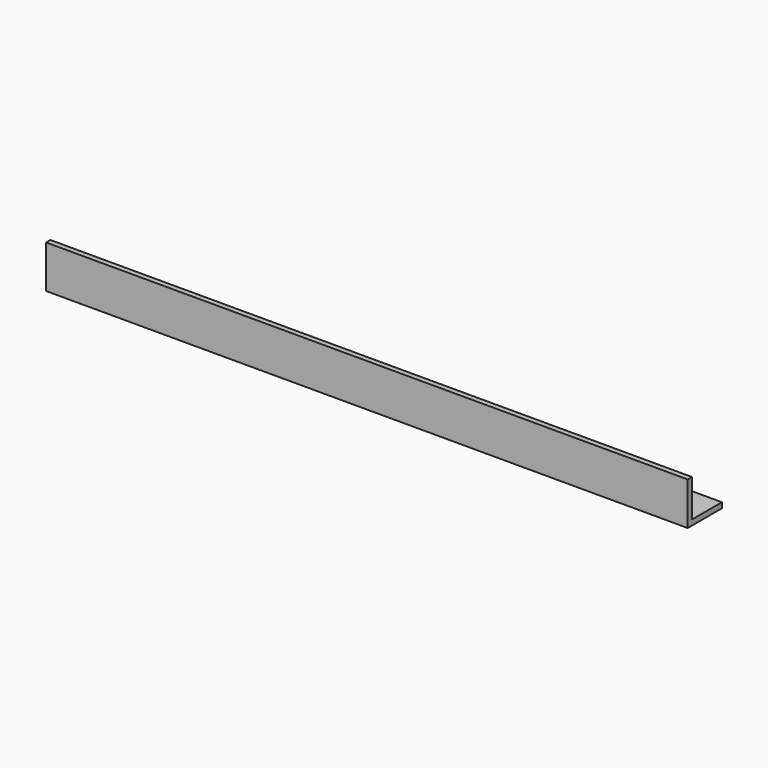
from build123d import *

# Parameters (mm, degrees)
F1_DEPTH = 381
F2_R     = 6.35
F3_DEPTH = 50.801
F5_D     = 8.4328


with BuildPart() as f1:
    # F0 (on Right) → F1 (new body, symmetric)
    with BuildSketch(Plane.YZ):
        Polygon((0, 50.8), (0, 0), (50.8, 0), (50.8, 6.35), (6.35, 6.35), (6.35, 50.8), align=None)
    extrude(amount=F1_DEPTH, both=True)

    # F2 (on face) → F3 (cut, through all)
    with BuildSketch(Plane(origin=(0, 0, 0), x_dir=(1, 0, 0), z_dir=(0, 0, -1))):
        with Locations((0, -25.4)):
            Circle(F2_R)
    extrude(amount=-F3_DEPTH, mode=Mode.SUBTRACT)

    # F5 (through all)
    with Locations(Plane(origin=(0, 0, 0), x_dir=(1, 0, 0), z_dir=(0, 0, -1))):
        with Locations((50.8, -25.4), (-50.8, -25.4)):
            Hole(F5_D / 2)


solid = f1.part
